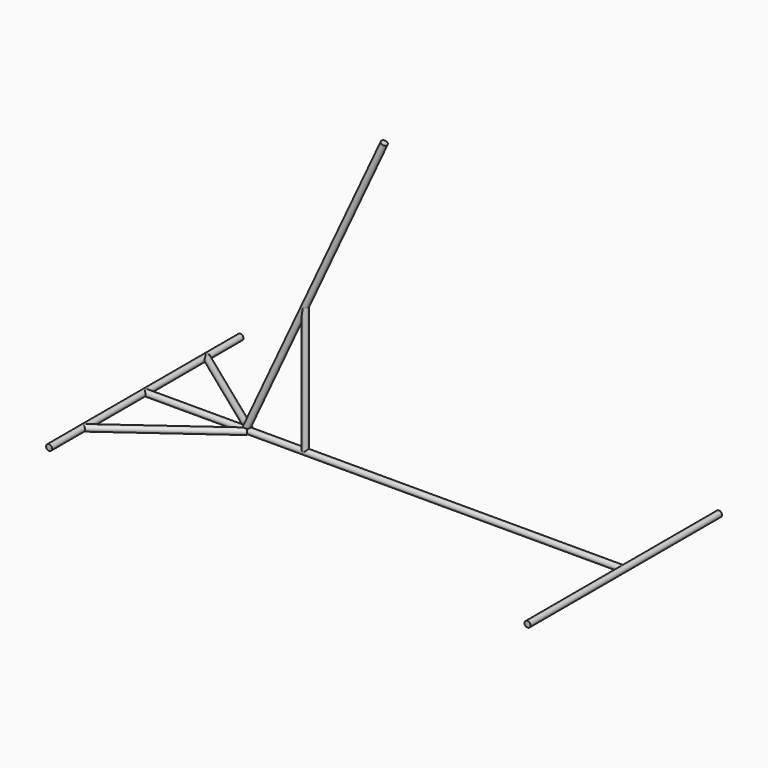
from build123d import *

# Parameters (mm, degrees)
CYLINDER001_R               = 3.5
CYLINDER001_DEPTH           = 280
CYLINDER001_ROLL_ANGLE      = 90
CYLINDER003_R               = 3.5
CYLINDER003_DEPTH           = 150
CYLINDER003_PITCH_ANGLE     = 90
CYLINDER003_PLACEMENT_ANGLE = 36
CYLINDER002_R               = 3.5
CYLINDER002_DEPTH           = 280
CYLINDER002_ROLL_ANGLE      = 90
CYLINDER004_R               = 3.5
CYLINDER004_DEPTH           = 150
CYLINDER004_PITCH_ANGLE     = 90
CYLINDER004_PLACEMENT_ANGLE = -36
CYLINDER005_R               = 3.5
CYLINDER005_DEPTH           = 150
CYLINDER006_R               = 3.5
CYLINDER006_DEPTH           = 384
CYLINDER006_PLACEMENT_ANGLE = 25
CYLINDER_R                  = 3.5
CYLINDER_DEPTH              = 560
CYLINDER_PITCH_ANGLE        = 90


with BuildPart() as obj1:
    # Cylinder001 → Cylinder001 (new body)
    with BuildSketch(Plane.XY):
        Circle(CYLINDER001_R)
    extrude(amount=CYLINDER001_DEPTH)


with BuildPart() as obj1_1:
    # Cylinder001 roll: moved
    add(obj1.part.rotate(Axis((0, 0, 0), (1, 0, 0)), CYLINDER001_ROLL_ANGLE))


with BuildPart() as obj1_2:
    # Cylinder001 placement: moved
    add(obj1_1.part.moved(Location((0, 140, 0))))


with BuildPart() as soporte_derecho:
    # Cylinder003 → Cylinder003 (new body)
    with BuildSketch(Plane.XY):
        Circle(CYLINDER003_R)
    extrude(amount=CYLINDER003_DEPTH)


with BuildPart() as soporte_derecho_1:
    # Cylinder003 pitch: moved
    add(soporte_derecho.part.rotate(Axis((0, 0, 0), (0, 1, 0)), CYLINDER003_PITCH_ANGLE))


with BuildPart() as soporte_derecho_2:
    # Cylinder003 placement: moved
    add(soporte_derecho_1.part.moved(Location((0, -90, 0))).rotate(Axis((0, -90, 0), (0, 0, 1)), CYLINDER003_PLACEMENT_ANGLE))


with BuildPart() as obj2:
    # Cylinder002 → Cylinder002 (new body)
    with BuildSketch(Plane.XY):
        Circle(CYLINDER002_R)
    extrude(amount=CYLINDER002_DEPTH)


with BuildPart() as obj2_1:
    # Cylinder002 roll: moved
    add(obj2.part.rotate(Axis((0, 0, 0), (1, 0, 0)), CYLINDER002_ROLL_ANGLE))


with BuildPart() as obj2_2:
    # Cylinder002 placement: moved
    add(obj2_1.part.moved(Location((560, 140, 0))))


with BuildPart() as soporte_izquierdo:
    # Cylinder004 → Cylinder004 (new body)
    with BuildSketch(Plane.XY):
        Circle(CYLINDER004_R)
    extrude(amount=CYLINDER004_DEPTH)


with BuildPart() as soporte_izquierdo_1:
    # Cylinder004 pitch: moved
    add(soporte_izquierdo.part.rotate(Axis((0, 0, 0), (0, 1, 0)), CYLINDER004_PITCH_ANGLE))


with BuildPart() as soporte_izquierdo_2:
    # Cylinder004 placement: moved
    add(soporte_izquierdo_1.part.moved(Location((0, 90, 0))).rotate(Axis((0, 90, 0), (0, 0, 1)), CYLINDER004_PLACEMENT_ANGLE))


with BuildPart() as obj3:
    # Cylinder005 → Cylinder005 (new body)
    with BuildSketch(Plane(origin=(188, 0, 0), x_dir=(1, 0, 0), z_dir=(0, 0, 1))):
        Circle(CYLINDER005_R)
    extrude(amount=CYLINDER005_DEPTH)


with BuildPart() as obj4:
    # Cylinder006 → Cylinder006 (new body)
    with BuildSketch(Plane.XY):
        Circle(CYLINDER006_R)
    extrude(amount=CYLINDER006_DEPTH)


with BuildPart() as obj4_1:
    # Cylinder006 placement: moved
    add(obj4.part.moved(Location((118, 0, 0))).rotate(Axis((118, 0, 0), (0, 1, 0)), CYLINDER006_PLACEMENT_ANGLE))


with BuildPart() as obj5:
    # Cylinder → Cylinder (new body)
    with BuildSketch(Plane.XY):
        Circle(CYLINDER_R)
    extrude(amount=CYLINDER_DEPTH)


with BuildPart() as obj5_1:
    # Cylinder pitch: moved
    add(obj5.part.rotate(Axis((0, 0, 0), (0, 1, 0)), CYLINDER_PITCH_ANGLE))


with BuildPart() as obj5_2:
    # Cylinder placement: moved
    add(obj5_1.part)

    # Fusion: union obj1, Soporte Derecho, obj2, Soporte Izquierdo, obj3, obj4
    add(obj1_2.part)
    add(soporte_derecho_2.part)
    add(obj2_2.part)
    add(soporte_izquierdo_2.part)
    add(obj3.part)
    add(obj4_1.part)


solid = obj5_2.part
